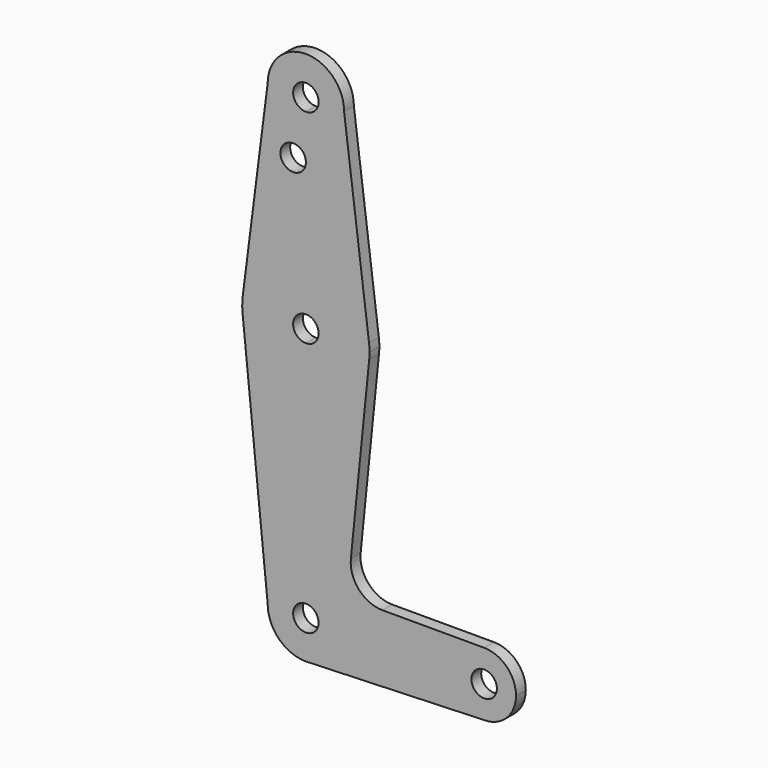
from build123d import *

# Parameters (mm, degrees)
F0_R     = 3.175
F1_DEPTH = 3.048


with BuildPart() as f1:
    # F0 (on Front) → F1 (new body)
    with BuildSketch(Plane.XZ):
        with BuildLine():
            ThreePointArc((-9.525, 114.3), (-6.7351920908, 107.5648079092), (0, 104.775))
            ThreePointArc((0, 104.775), (6.7351920908, 107.5648079092), (9.525, 114.3))
            ThreePointArc((9.525, 114.3), (0, 123.825), (-9.525, 114.3))
        make_face()
        with BuildLine():
            ThreePointArc((3.175, 114.3), (2.2450640303, 112.0549359697), (0, 111.125))
            ThreePointArc((0, 111.125), (-2.2450640303, 116.5450640303), (3.175, 114.3))
        make_face(mode=Mode.SUBTRACT)
        with BuildLine():
            ThreePointArc((9.525, 114.3), (6.7351920908, 107.5648079092), (0, 104.775))
            Line((0, 104.775), (0, 100.0252))
            Line((0, 100.0252), (0, 79.375))
            ThreePointArc((0, 79.375), (10.4912828548, 75.4142187767), (15.7474569047, 65.5082893304))
            Line((15.7474569047, 65.5082893304), (9.525, 114.3))
        make_face()
        with BuildLine():
            Line((0, 100.0252), (0, 104.775))
            ThreePointArc((0, 104.775), (-6.7351920908, 107.5648079092), (-9.525, 114.3))
            Line((-9.525, 114.3), (-15.7474569047, 65.5082893304))
            ThreePointArc((-15.7474569047, 65.5082893304), (-10.4912828548, 75.4142187767), (0, 79.375))
            Line((0, 79.375), (0, 100.0252))
        make_face()
        with Locations((-3.175, 100.0252)):
            Circle(F0_R, mode=Mode.SUBTRACT)
        with BuildLine():
            ThreePointArc((15.7474569047, 65.5082893304), (10.4912828548, 75.4142187767), (0, 79.375))
            Line((0, 79.375), (0, 66.675))
            ThreePointArc((0, 66.675), (2.2450640303, 65.7450640303), (3.175, 63.5))
            ThreePointArc((3.175, 63.5), (2.2450640303, 61.2549359697), (0, 60.325))
            Line((0, 60.325), (0, 47.625))
            ThreePointArc((0, 47.625), (10.644756084, 51.722700101), (15.7942028036, 61.9003804205))
            ThreePointArc((15.7942028036, 61.9003804205), (15.8547878338, 62.6991705884), (15.875, 63.5))
            ThreePointArc((15.875, 63.5), (15.8430821396, 64.5061676396), (15.7474569047, 65.5082893304))
        make_face()
        with BuildLine():
            Line((0, 66.675), (0, 79.375))
            ThreePointArc((0, 79.375), (-10.4912828548, 75.4142187767), (-15.7474569047, 65.5082893304))
            ThreePointArc((-15.7474569047, 65.5082893304), (-15.873667691, 63.7056672947), (-15.7942028036, 61.9003804205))
            ThreePointArc((-15.7942028036, 61.9003804205), (-10.644756084, 51.722700101), (0, 47.625))
            Line((0, 47.625), (0, 60.325))
            ThreePointArc((0, 60.325), (-3.175, 63.5), (0, 66.675))
        make_face()
        with BuildLine():
            ThreePointArc((0, 47.625), (-10.644756084, 51.722700101), (-15.7942028036, 61.9003804205))
            Line((-15.7942028036, 61.9003804205), (-9.525, 0))
            ThreePointArc((-9.525, 0), (-6.7351920908, 6.7351920908), (0, 9.525))
            Line((0, 9.525), (0, 47.625))
        make_face()
        with BuildLine():
            ThreePointArc((15.7942028036, 61.9003804205), (10.644756084, 51.722700101), (0, 47.625))
            Line((0, 47.625), (0, 9.525))
            ThreePointArc((0, 9.525), (6.7351920908, 6.7351920908), (9.525, 0))
            Line((9.525, 0), (36.5125, 0))
            ThreePointArc((36.5125, 0), (38.8373399243, 5.6126600757), (44.45, 7.9375))
            Line((44.45, 7.9375), (19.1249591039, 7.9375))
            ThreePointArc((19.1249591039, 7.9375), (13.2268873144, 10.5568061531), (11.2152223398, 16.6887894854))
            Line((11.2152223398, 16.6887894854), (15.7942028036, 61.9003804205))
        make_face()
        with BuildLine():
            ThreePointArc((0, 9.525), (-6.7351920908, 6.7351920908), (-9.525, 0))
            ThreePointArc((-9.525, 0), (-6.7351920908, -6.7351920908), (0, -9.525))
            Line((0, -9.525), (0.6794904459, -9.5007324841))
            ThreePointArc((0.6794904459, -9.5007324841), (6.9712901065, -6.4905114784), (9.525, 0))
            Line((9.525, 0), (3.175, 0))
            ThreePointArc((3.175, 0), (-2.2450640303, -2.2450640303), (0, 3.175))
            Line((0, 3.175), (0, 9.525))
        make_face()
        with BuildLine():
            Line((0.6794904459, -9.5007324841), (0, -9.525))
            ThreePointArc((0, -9.525), (0.3399618281, -9.5189311877), (0.6794904459, -9.5007324841))
        make_face()
        with BuildLine():
            Line((36.5125, 0), (9.525, 0))
            ThreePointArc((9.525, 0), (6.9712901065, -6.4905114784), (0.6794904459, -9.5007324841))
            Line((0.6794904459, -9.5007324841), (44.45, -7.9375))
            ThreePointArc((44.45, -7.9375), (38.8373399243, -5.6126600757), (36.5125, 0))
        make_face()
        with BuildLine():
            ThreePointArc((44.45, 7.9375), (38.8373399243, 5.6126600757), (36.5125, 0))
            ThreePointArc((36.5125, 0), (38.8373399243, -5.6126600757), (44.45, -7.9375))
            ThreePointArc((44.45, -7.9375), (50.0626600757, -5.6126600757), (52.3875, 0))
            ThreePointArc((52.3875, 0), (50.0626600757, 5.6126600757), (44.45, 7.9375))
        make_face()
        with BuildLine():
            ThreePointArc((47.625, 0), (44.45, -3.175), (41.275, 0))
            ThreePointArc((41.275, 0), (44.45, 3.175), (47.625, 0))
        make_face(mode=Mode.SUBTRACT)
        with BuildLine():
            ThreePointArc((9.525, 0), (6.7351920908, 6.7351920908), (0, 9.525))
            Line((0, 9.525), (0, 3.175))
            ThreePointArc((0, 3.175), (2.2450640303, 2.2450640303), (3.175, 0))
            Line((3.175, 0), (9.525, 0))
        make_face()
    extrude(amount=F1_DEPTH)


solid = f1.part
